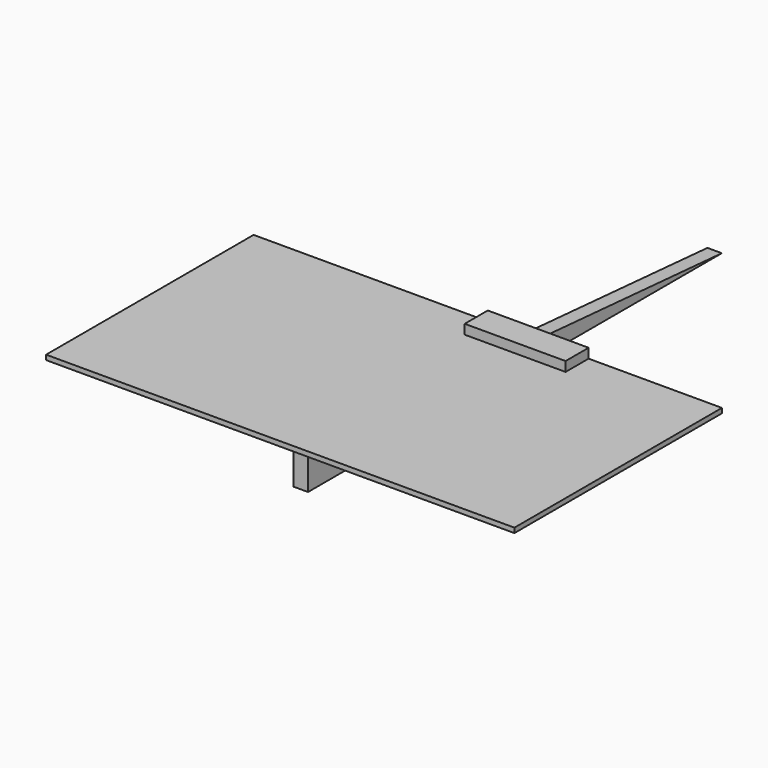
from build123d import *

# Parameters (mm, degrees)
F0_W     = 914.4
F0_H     = 16.9672
F1_DEPTH = 825.5
F3_DEPTH = 50.8
F4_W     = 101.6
F4_H     = 50.8
F5_DEPTH = 342.9
F6_W     = 101.6
F6_H     = 50.8
F7_DEPTH = 355.6


with BuildPart() as f1:
    # F0 (on Right) → F1 (new body, symmetric)
    with BuildSketch(Plane.YZ):
        with Locations((-457.2, 8.4836)):
            Rectangle(F0_W, F0_H)
    extrude(amount=F1_DEPTH, both=True)


with BuildPart() as f3:
    # F2 (on Right) → F3 (new body)
    with BuildSketch(Plane.YZ):
        Polygon((967.977208, -148.375238), (-855.479222, -8.675238), (-855.479222, -148.375238), align=None)
    extrude(amount=F3_DEPTH)


with BuildPart() as f5:
    # F4 (on Right) → F5 (new body)
    with BuildSketch(Plane.YZ):
        with Locations((-50.8, 25.4)):
            Rectangle(F4_W, F4_H)
    extrude(amount=F5_DEPTH)


with BuildPart() as f7:
    # F6 (on Right) → F7 (new body)
    with BuildSketch(Plane.YZ):
        with Locations((-50.8, 25.4)):
            Rectangle(F6_W, F6_H)
    extrude(amount=F7_DEPTH)


solid = Compound([f1.part, f3.part, f5.part, f7.part])
